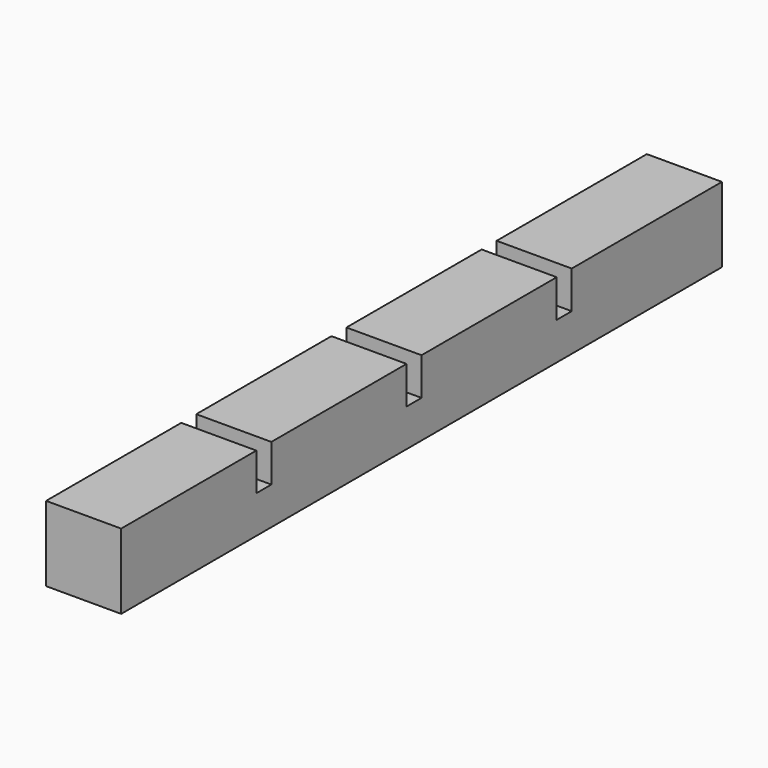
from build123d import *

# Parameters (mm, degrees)
F0_W     = 5.08
F0_H     = 50.8
F1_DEPTH = 5.08
F2_W     = 5.08
F2_H     = 1.27
F3_DEPTH = 2.54


with BuildPart() as f1:
    # F0 (on Top) → F1 (new body)
    with BuildSketch(Plane.XY):
        with Locations((-35.102088, 42.176578)):
            Rectangle(F0_W, F0_H)
    extrude(amount=F1_DEPTH)

    # F2 (on face) → F3 (cut)
    with BuildSketch(Plane.XY.offset(5.08)):
        with Locations((-35.102088, 54.241578)):
            Rectangle(F2_W, F2_H)
        with Locations((-35.102088, 41.541578)):
            Rectangle(F2_W, F2_H)
        with Locations((-35.102088, 28.841578)):
            Rectangle(F2_W, F2_H)
    extrude(amount=-F3_DEPTH, mode=Mode.SUBTRACT)


solid = f1.part
